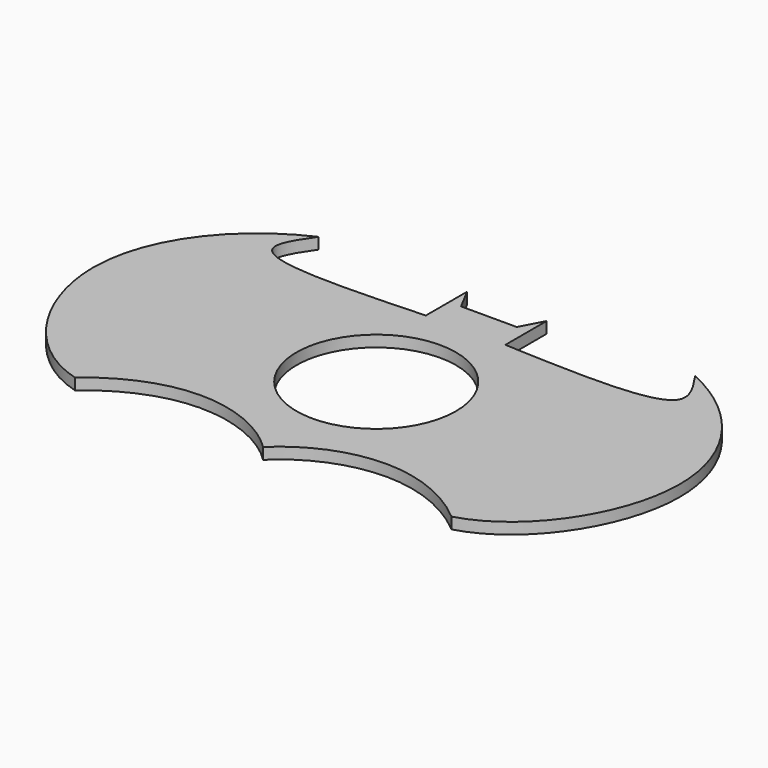
from build123d import *

# Parameters (mm, degrees)
F0_R     = 49.4170811362
F1_DEPTH = 7


with BuildPart() as f1:
    # F0 (on Top) → F1 (new body)
    with BuildSketch(Plane.XY):
        with BuildLine():
            add(Edge.make_bspline(
                [(0, 94.3807365658), (-0.0119379338, 95.2269886433), (-0.0118946907, 96.0715546279), (0, 96.9142982709)],
                knots=[0.5, 0.5, 0.5, 0.5, 0.5105644323, 0.5105644323, 0.5105644323, 0.5105644323], degree=3))
            Line((0, 94.3807365658), (0, 96.9142982709))
        make_face()
        with BuildLine():
            Line((0, 96.9142982709), (0, 94.3807365658))
            add(Edge.make_bspline(
                [(65.0650430471, 0), (27.9678273946, 10.5000054464), (0.565005932, 54.3287935629), (0, 94.3807365658)],
                knots=[0, 0, 0, 0, 0.5, 0.5, 0.5, 0.5], degree=3))
            add(Edge.make_bspline(
                [(65.0650430471, 0), (81.994375859, 14.4372666979), (122.6522566992, 31.9710162807), (165.9505028095, 15.6042415748), (181.7901432514, 0)],
                knots=[0, 0, 0, 0, 0.4993848001, 1, 1, 1, 1], degree=3))
            add(Edge.make_bspline(
                [(298.5152434558, 0), (281.5859106439, 14.4372666979), (240.9280298036, 31.9710162807), (197.6297836934, 15.6042415748), (181.7901432514, 0)],
                knots=[0, 0, 0, 0, 0.4993848001, 1, 1, 1, 1], degree=3))
            add(Edge.make_bspline(
                [(298.5152434558, 0), (335.6124591082, 10.5000054464), (390.4181020334, 98.1575816793), (337.8724828362, 170.7077774581), (298.5152434558, 188.7614731316)],
                knots=[0, 0, 0, 0, 0.5, 1, 1, 1, 1], degree=3))
            add(Edge.make_bspline(
                [(298.5152434558, 188.7614731316), (304.9228074129, 179.3974646966), (323.9386038821, 151.6077961536), (253.2731908086, 154.7519554988), (206.4191997051, 156.8366587162)],
                knots=[0, 0, 0, 0, 0.336960062, 1, 1, 1, 1], degree=3))
            Line((206.4191997051, 156.8366587162), (206.4191997051, 188.7614731316))
            Line((206.4191997051, 188.7614731316), (199.0741193295, 174.9168634415))
            Line((199.0741193295, 174.9168634415), (181.7901432514, 174.9168634415))
            Line((181.7901432514, 174.9168634415), (164.5061671734, 174.9168634415))
            Line((164.5061671734, 174.9168634415), (157.1610867977, 188.7614731316))
            Line((157.1610867977, 188.7614731316), (157.1610867977, 156.8366587162))
            add(Edge.make_bspline(
                [(65.0650430471, 188.7614731316), (58.65747909, 179.3974646966), (39.6416826207, 151.6077961536), (110.3070956942, 154.7519554988), (157.1610867977, 156.8366587162)],
                knots=[0, 0, 0, 0, 0.336960062, 1, 1, 1, 1], degree=3))
            add(Edge.make_bspline(
                [(0, 96.9142982709), (0.551064605, 135.9574482655), (26.5393774454, 171.0892315481), (65.0650430471, 188.7614731316)],
                knots=[0.5105644323, 0.5105644323, 0.5105644323, 0.5105644323, 1, 1, 1, 1], degree=3))
        make_face()
        with Locations((181.7901432514, 87.6324102283)):
            Circle(F0_R, mode=Mode.SUBTRACT)
        with BuildLine():
            Line((0, 96.9142982709), (0, 94.3807365658))
            add(Edge.make_bspline(
                [(65.0650430471, 0), (27.9678273946, 10.5000054464), (0.565005932, 54.3287935629), (0, 94.3807365658)],
                knots=[0, 0, 0, 0, 0.5, 0.5, 0.5, 0.5], degree=3))
            add(Edge.make_bspline(
                [(65.0650430471, 0), (81.994375859, 14.4372666979), (122.6522566992, 31.9710162807), (165.9505028095, 15.6042415748), (181.7901432514, 0)],
                knots=[0, 0, 0, 0, 0.4993848001, 1, 1, 1, 1], degree=3))
            add(Edge.make_bspline(
                [(298.5152434558, 0), (281.5859106439, 14.4372666979), (240.9280298036, 31.9710162807), (197.6297836934, 15.6042415748), (181.7901432514, 0)],
                knots=[0, 0, 0, 0, 0.4993848001, 1, 1, 1, 1], degree=3))
            add(Edge.make_bspline(
                [(298.5152434558, 0), (335.6124591082, 10.5000054464), (390.4181020334, 98.1575816793), (337.8724828362, 170.7077774581), (298.5152434558, 188.7614731316)],
                knots=[0, 0, 0, 0, 0.5, 1, 1, 1, 1], degree=3))
            add(Edge.make_bspline(
                [(298.5152434558, 188.7614731316), (304.9228074129, 179.3974646966), (323.9386038821, 151.6077961536), (253.2731908086, 154.7519554988), (206.4191997051, 156.8366587162)],
                knots=[0, 0, 0, 0, 0.336960062, 1, 1, 1, 1], degree=3))
            Line((206.4191997051, 156.8366587162), (206.4191997051, 188.7614731316))
            Line((206.4191997051, 188.7614731316), (199.0741193295, 174.9168634415))
            Line((199.0741193295, 174.9168634415), (181.7901432514, 174.9168634415))
            Line((181.7901432514, 174.9168634415), (164.5061671734, 174.9168634415))
            Line((164.5061671734, 174.9168634415), (157.1610867977, 188.7614731316))
            Line((157.1610867977, 188.7614731316), (157.1610867977, 156.8366587162))
            add(Edge.make_bspline(
                [(65.0650430471, 188.7614731316), (58.65747909, 179.3974646966), (39.6416826207, 151.6077961536), (110.3070956942, 154.7519554988), (157.1610867977, 156.8366587162)],
                knots=[0, 0, 0, 0, 0.336960062, 1, 1, 1, 1], degree=3))
            add(Edge.make_bspline(
                [(0, 96.9142982709), (0.551064605, 135.9574482655), (26.5393774454, 171.0892315481), (65.0650430471, 188.7614731316)],
                knots=[0.5105644323, 0.5105644323, 0.5105644323, 0.5105644323, 1, 1, 1, 1], degree=3))
        make_face()
        with Locations((181.7901432514, 87.6324102283)):
            Circle(F0_R, mode=Mode.SUBTRACT)
    extrude(amount=F1_DEPTH)


solid = f1.part
